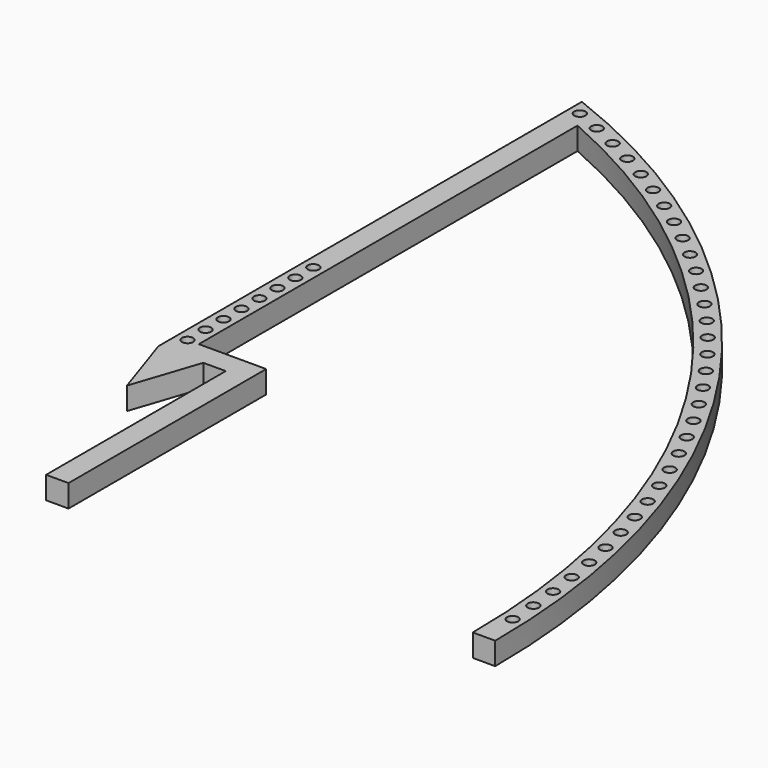
from build123d import *

# Parameters (mm, degrees)
F0_R     = 1.5875
F1_DEPTH = 6.35


with BuildPart() as f1:
    # F0 (on Top) → F1 (new body)
    with BuildSketch(Plane.XY):
        with BuildLine():
            Line((19.05, 63.5), (19.05, 0))
            Line((19.05, 0), (25.4, 0))
            Line((25.4, 0), (25.4, 69.85))
            Line((25.4, 69.85), (12.7, 69.85))
            Line((12.7, 69.85), (6.35, 69.85))
            Line((6.35, 69.85), (6.35, 203.69549))
            ThreePointArc((6.35, 203.69549), (103.397691, 121.731338), (139.7, 0))
            Line((139.7, 0), (146.05, 0))
            ThreePointArc((146.05, 0), (106.035379, 129.203386), (0, 213.174711))
            Line((0, 213.174711), (0, 175.074711))
            Line((0, 175.074711), (0, 63.5))
            Line((0, 63.5), (6.35, 44.45))
            Line((6.35, 44.45), (12.7, 63.5))
            Line((12.7, 63.5), (19.05, 63.5))
        make_face()
        with Locations((142.634137, 10.418015)):
            Circle(F0_R, mode=Mode.SUBTRACT)
        with Locations((142.123379, 18.393025)):
            Circle(F0_R, mode=Mode.SUBTRACT)
        with Locations((141.330271, 26.34492)):
            Circle(F0_R, mode=Mode.SUBTRACT)
        with Locations((140.25581, 34.263707)):
            Circle(F0_R, mode=Mode.SUBTRACT)
        with Locations((138.901346, 42.139435)):
            Circle(F0_R, mode=Mode.SUBTRACT)
        with Locations((137.268581, 49.962205)):
            Circle(F0_R, mode=Mode.SUBTRACT)
        with Locations((3.175, 69.85)):
            Circle(F0_R, mode=Mode.SUBTRACT)
        with Locations((3.175, 76.2)):
            Circle(F0_R, mode=Mode.SUBTRACT)
        with Locations((3.175, 82.55)):
            Circle(F0_R, mode=Mode.SUBTRACT)
        with Locations((3.175, 88.9)):
            Circle(F0_R, mode=Mode.SUBTRACT)
        with Locations((3.175, 95.25)):
            Circle(F0_R, mode=Mode.SUBTRACT)
        with Locations((3.175, 101.6)):
            Circle(F0_R, mode=Mode.SUBTRACT)
        with Locations((3.175, 107.95)):
            Circle(F0_R, mode=Mode.SUBTRACT)
        with Locations((135.359568, 57.722187)):
            Circle(F0_R, mode=Mode.SUBTRACT)
        with Locations((133.176705, 65.409629)):
            Circle(F0_R, mode=Mode.SUBTRACT)
        with Locations((130.722735, 73.014869)):
            Circle(F0_R, mode=Mode.SUBTRACT)
        with Locations((128.000743, 80.528351)):
            Circle(F0_R, mode=Mode.SUBTRACT)
        with Locations((125.014149, 87.940632)):
            Circle(F0_R, mode=Mode.SUBTRACT)
        with Locations((121.766706, 95.242397)):
            Circle(F0_R, mode=Mode.SUBTRACT)
        with Locations((118.262496, 102.42447)):
            Circle(F0_R, mode=Mode.SUBTRACT)
        with Locations((114.505923, 109.477824)):
            Circle(F0_R, mode=Mode.SUBTRACT)
        with Locations((3.175, 114.3)):
            Circle(F0_R, mode=Mode.SUBTRACT)
        with Locations((64.24749, 171.075795)):
            Circle(F0_R, mode=Mode.SUBTRACT)
        with Locations((106.25488, 123.163095)):
            Circle(F0_R, mode=Mode.SUBTRACT)
        with Locations((101.770779, 129.777814)):
            Circle(F0_R, mode=Mode.SUBTRACT)
        with Locations((97.055041, 136.229439)):
            Circle(F0_R, mode=Mode.SUBTRACT)
        with Locations((92.11359, 142.509862)):
            Circle(F0_R, mode=Mode.SUBTRACT)
        with Locations((110.501706, 116.393597)):
            Circle(F0_R, mode=Mode.SUBTRACT)
        with Locations((86.952638, 148.611192)):
            Circle(F0_R, mode=Mode.SUBTRACT)
        with Locations((81.578669, 154.52576)):
            Circle(F0_R, mode=Mode.SUBTRACT)
        with Locations((75.998438, 160.246134)):
            Circle(F0_R, mode=Mode.SUBTRACT)
        with Locations((70.218957, 165.765124)):
            Circle(F0_R, mode=Mode.SUBTRACT)
        with Locations((24.822887, 198.21073)):
            Circle(F0_R, mode=Mode.SUBTRACT)
        with Locations((45.25736, 185.692513)):
            Circle(F0_R, mode=Mode.SUBTRACT)
        with Locations((58.09154, 176.171473)):
            Circle(F0_R, mode=Mode.SUBTRACT)
        with Locations((51.758844, 181.045754)):
            Circle(F0_R, mode=Mode.SUBTRACT)
        with Locations((38.595259, 190.105909)):
            Circle(F0_R, mode=Mode.SUBTRACT)
        with Locations((31.780914, 194.280397)):
            Circle(F0_R, mode=Mode.SUBTRACT)
        with Locations((3.175, 208.488981)):
            Circle(F0_R, mode=Mode.SUBTRACT)
        with Locations((17.729924, 201.89197)):
            Circle(F0_R, mode=Mode.SUBTRACT)
        with Locations((10.510937, 205.319489)):
            Circle(F0_R, mode=Mode.SUBTRACT)
    extrude(amount=F1_DEPTH)


solid = f1.part
